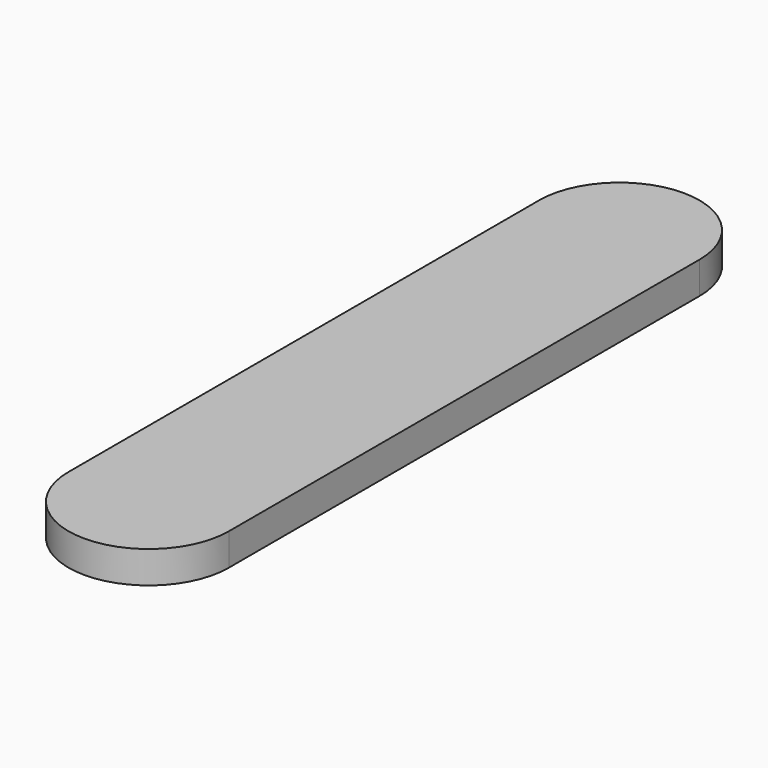
from build123d import *

# Parameters (mm, degrees)
PAD_DEPTH    = 3
PAD001_DEPTH = 3


with BuildPart() as top:
    # Sketch → Pad (new body)
    with BuildSketch(Plane.XY):
        with BuildLine():
            ThreePointArc((7.5, 27.5), (0, 35), (-7.5, 27.5))
            Line((-7.5, 27.5), (-7.5, -27.5))
            ThreePointArc((-7.5, -27.5), (0, -35), (7.5, -27.5))
            Line((7.5, -27.5), (7.5, 27.5))
        make_face()
    extrude(amount=PAD_DEPTH)


with BuildPart() as bottom:
    # Sketch001 → Pad001 (new body)
    with BuildSketch(Plane.XY):
        with BuildLine():
            ThreePointArc((7.5, 27.5), (0, 35), (-7.5, 27.5))
            Line((-7.5, 27.5), (-7.5, -27.5))
            ThreePointArc((-7.5, -27.5), (0, -35), (7.5, -27.5))
            Line((7.5, -27.5), (7.5, 27.5))
        make_face()
    extrude(amount=PAD001_DEPTH)


solid = Compound([top.part, bottom.part])
